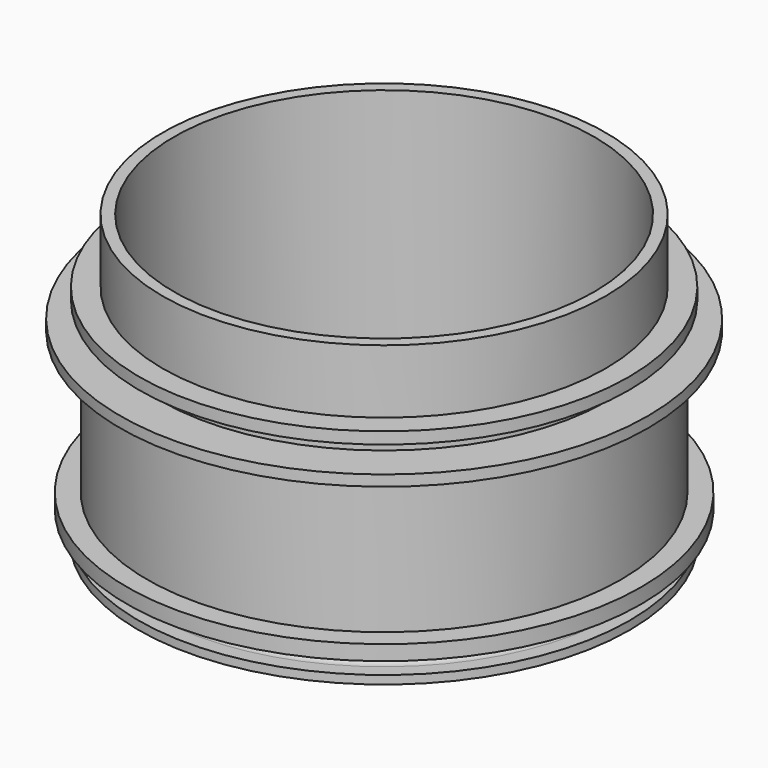
from build123d import *


with BuildPart() as f1:
    # F0 (on Front) → F1 (revolve)
    with BuildSketch(Plane.XZ):
        with BuildLine():
            Line((0, 2.295215), (0, 0))
            Line((0, 0), (44.238407, 0))
            Line((44.238407, 0), (44.238407, -4.954605))
            ThreePointArc((44.238407, -4.954605), (45.35433, -7.648682), (48.048407, -8.764605))
            Line((48.048407, -8.764605), (51.729806, -8.764605))
            Line((51.729806, -8.764605), (51.729806, -6.992775))
            Line((51.729806, -6.992775), (48.77149, -6.992775))
            ThreePointArc((48.77149, -6.992775), (46.975438, -6.248826), (46.23149, -4.452775))
            Line((46.23149, -4.452775), (46.23149, 33.074099))
            ThreePointArc((46.23149, 33.074099), (46.975438, 34.87015), (48.77149, 35.614099))
            Line((48.77149, 35.614099), (51.518559, 35.614099))
            Line((51.518559, 35.614099), (51.518559, 38.081199))
            Line((51.518559, 38.081199), (46.651583, 38.081199))
            Line((46.651583, 38.081199), (46.651583, 51.497232))
            Line((46.651583, 51.497232), (44.238407, 51.497232))
            Line((44.238407, 51.497232), (44.238407, 2.295215))
            Line((44.238407, 2.295215), (0, 2.295215))
        make_face()
        Polygon((47.063027, 32.203689), (47.063027, -3.250978), (54.172918, -3.156181), (54.172918, 0), (49.906984, 0), (49.906984, 29.928522), (55.594895, 29.928522), (55.594895, 32.203689), align=None)
    revolve(axis=Axis((0, 0, 1.147608), (0, 0, -1)))


solid = f1.part
